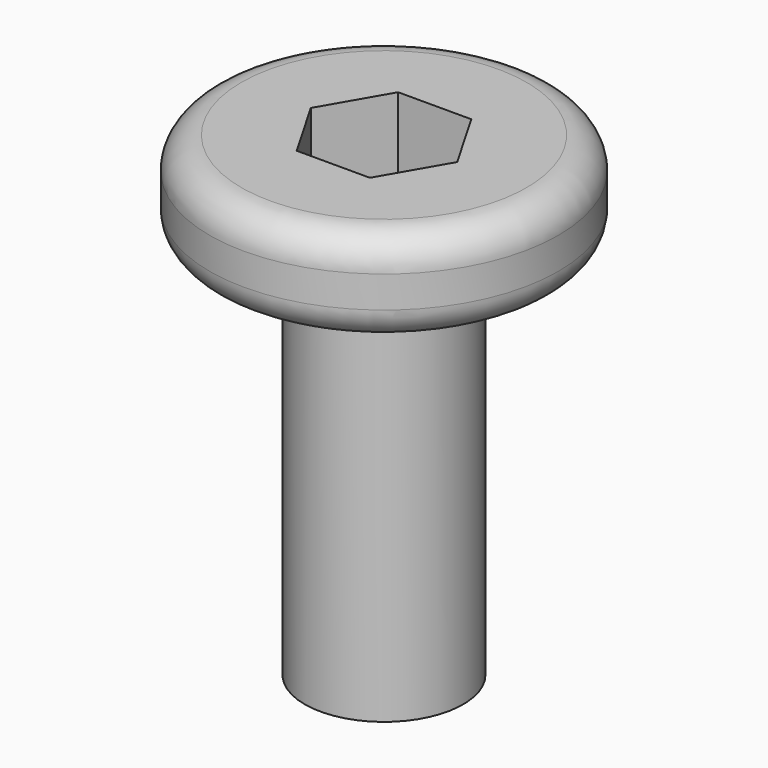
from build123d import *

# Parameters (mm, degrees)
F3_DEPTH = 3


with BuildPart() as f1:
    # F0 (on Front) → F1 (revolve)
    with BuildSketch(Plane.XZ):
        with BuildLine():
            Line((-2.5, 0), (0, 0))
            Line((0, 0), (0, 15))
            Line((0, 15), (-4.5, 15))
            ThreePointArc((-4.5, 15), (-5.207107, 14.707107), (-5.5, 14))
            Line((-5.5, 14), (-5.5, 13))
            ThreePointArc((-5.5, 13), (-5.207107, 12.292893), (-4.5, 12))
            Line((-4.5, 12), (-2.5, 12))
            Line((-2.5, 12), (-2.5, 0))
        make_face()
    revolve(axis=Axis((0, 0, 7.5), (0, 0, 1)))

    # F2 (on face) → F3 (cut)
    with BuildSketch(Plane.XY.offset(15)):
        Polygon((1.154701, 2), (-1.154701, 2), (-2.309401, 0), (-1.154701, -2), (1.154701, -2), (2.309401, 0), align=None)
    extrude(amount=-F3_DEPTH, mode=Mode.SUBTRACT)


solid = f1.part
